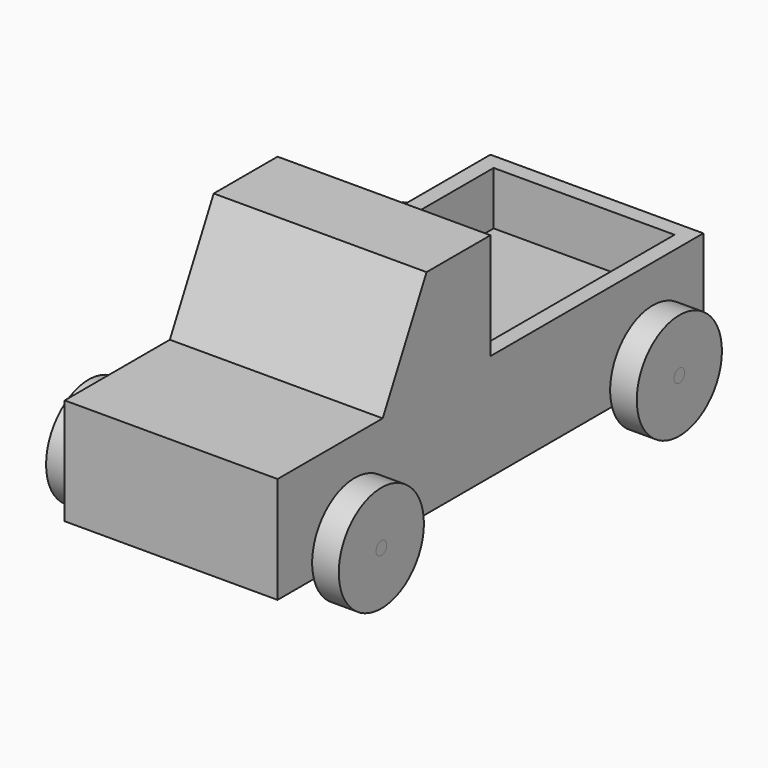
from build123d import *

# Parameters (mm, degrees)
F0_R      = 2.5
F1_DEPTH  = 40
F2_W      = 34
F2_H      = 44
F3_DEPTH  = 10
F4_R      = 1.25
F5_DEPTH  = 47.5
F5_FACE_R = 1.25
F6_DEPTH  = 7.5
F7_R      = 1.25
F8_DEPTH  = 47.5
F8_FACE_R = 1.25
F9_DEPTH  = 7.5
F10_R     = 10
F10_R_2   = 1.25
F11_DEPTH = 5
F12_R     = 10
F12_R_2   = 1.25
F14_DEPTH = 5
F15_R     = 10
F15_R_2   = 1.25
F16_DEPTH = 5
F17_R     = 10
F17_R_2   = 1.25
F18_DEPTH = 5


with BuildPart() as f1:
    # F0 (on Right) → F1 (new body)
    with BuildSketch(Plane.YZ):
        Polygon((50, -10), (50, 10), (0, 10), (-25.30775, 10), (-50, 10), (-50, -10), align=None)
        with Locations((-35, -5)):
            Circle(F0_R, mode=Mode.SUBTRACT)
        with Locations((35, -5)):
            Circle(F0_R, mode=Mode.SUBTRACT)
        Polygon((-25.30775, 10), (0, 10), (0, 30), (-15, 30), align=None)
    extrude(amount=F1_DEPTH)

    # F2 (on face) → F3 (cut)
    with BuildSketch(Plane.XY.offset(10)):
        with Locations((20, 25)):
            Rectangle(F2_W, F2_H)
    extrude(amount=-F3_DEPTH, mode=Mode.SUBTRACT)


with BuildPart() as f5:
    # F4 (on face) → F5 (new body)
    with BuildSketch(Plane.YZ.offset(40)):
        with Locations((-35, -5.084084)):
            Circle(F4_R)
    extrude(amount=-F5_DEPTH)

    # F5_face (on face) → F6 (join)
    with BuildSketch(Plane(origin=(40, -35, -5.084084), x_dir=(0, 1, 0), z_dir=(1, 0, 0))):
        Circle(F5_FACE_R)
    extrude(amount=F6_DEPTH)

    # F15 (on face) → F16 (join)
    with BuildSketch(Plane(origin=(-7.5, 0, 0), x_dir=(0, -1, 0), z_dir=(-1, 0, 0))):
        with Locations((35, -5.084084)):
            Circle(F15_R)
        with Locations((35, -5.084084)):
            Circle(F15_R_2, mode=Mode.SUBTRACT)
    extrude(amount=-F16_DEPTH)


with BuildPart() as f8:
    # F7 (on face) → F8 (new body)
    with BuildSketch(Plane.YZ.offset(40)):
        with Locations((35, -5)):
            Circle(F7_R)
    extrude(amount=-F8_DEPTH)

    # F8_face (on face) → F9 (join)
    with BuildSketch(Plane(origin=(40, 35, -5), x_dir=(0, 1, 0), z_dir=(1, 0, 0))):
        Circle(F8_FACE_R)
    extrude(amount=F9_DEPTH)

    # F17 (on face) → F18 (join)
    with BuildSketch(Plane(origin=(-7.5, 0, 0), x_dir=(0, -1, 0), z_dir=(-1, 0, 0))):
        with Locations((-35, -5)):
            Circle(F17_R)
        with Locations((-35, -5)):
            Circle(F17_R_2, mode=Mode.SUBTRACT)
    extrude(amount=-F18_DEPTH)


with BuildPart() as f11:
    # F10 (on face) → F11 (new body)
    with BuildSketch(Plane.YZ.offset(47.5)):
        with Locations((-35, -5.084084)):
            Circle(F10_R)
        with Locations((-35, -5.084084)):
            Circle(F10_R_2, mode=Mode.SUBTRACT)
    extrude(amount=-F11_DEPTH)


with BuildPart() as f14:
    # F12 (on face) → F14 (new body)
    with BuildSketch(Plane.YZ.offset(47.5)):
        with Locations((35, -5)):
            Circle(F12_R)
        with Locations((35, -5)):
            Circle(F12_R_2, mode=Mode.SUBTRACT)
    extrude(amount=-F14_DEPTH)


solid = Compound([f1.part, f5.part, f8.part, f11.part, f14.part])
